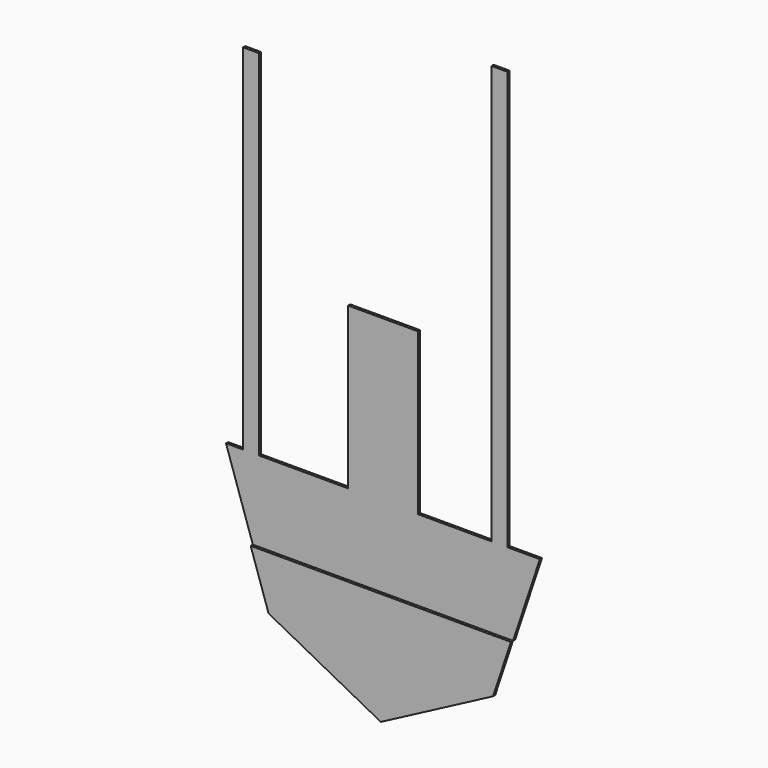
from build123d import *

# Parameters (mm, degrees)
F1_DEPTH = 25.4
F3_DEPTH = 25.4


with BuildPart() as f1:
    # F0 (on Front) → F1 (new body)
    with BuildSketch(Plane.XZ):
        Polygon((-1324.841142, 762), (-1485.9, 762), (-1231.9, 0), (1231.9, 0), (1485.9, 762), (1179.937346, 762), (1179.937346, 4724.4), (1027.537346, 4724.4), (1027.537346, 762), (330.2, 762), (330.2, 2286), (-330.2, 2286), (-330.2, 762), (-1172.441142, 762), (-1172.441142, 4114.8), (-1324.841142, 4114.8), align=None)
    extrude(amount=F1_DEPTH)


with BuildPart() as f3:
    # F2 (on face) → F3 (new body)
    with BuildSketch(Plane.XZ.offset(25.4)):
        Polygon((1231.9, 0), (-1231.9, 0), (-1062.566667, -508), (0, -1066.8), (1062.566667, -508), align=None)
    extrude(amount=F3_DEPTH)


solid = Compound([f1.part, f3.part])
